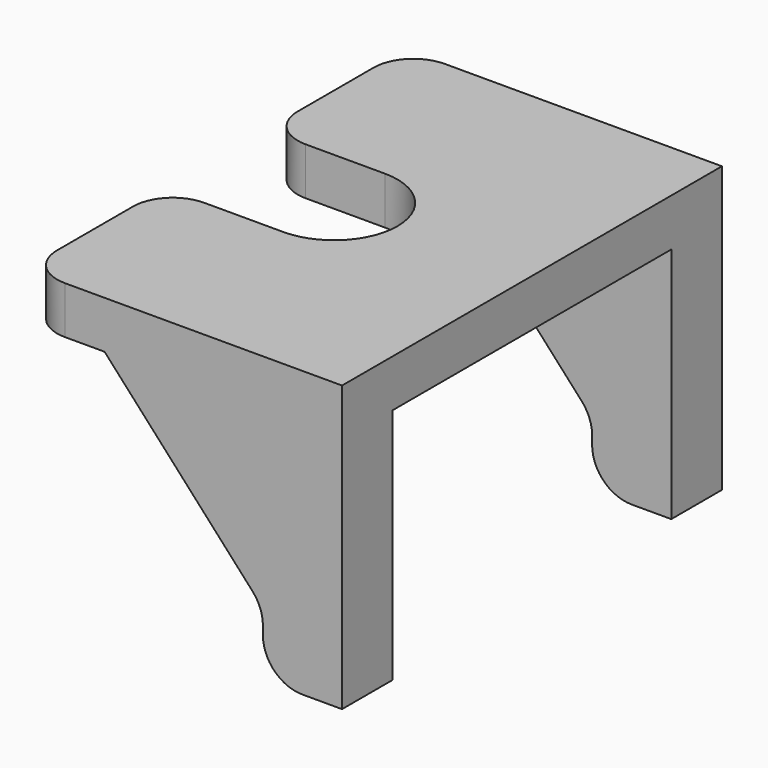
from build123d import *

# Parameters (mm, degrees)
PAD071_DEPTH            = 1.2
PAD072_DEPTH            = 1.6
LINEARPATTERN006_COUNT  = 2
LINEARPATTERN006_PITCH  = 10.4
FILLET026_R             = 1
FILLET027_R             = 1
FILLET028_R             = 1
BODY021_PLACEMENT_ANGLE = 180


with BuildPart() as part:
    # Sketch101 → Pad071 (new body)
    with BuildSketch(Plane.XY):
        with BuildLine():
            Line((-4, 6), (4, 6))
            Line((4, 6), (4, 1.6))
            Line((1, 1.6), (4, 1.6))
            ThreePointArc((1, 1.6), (-0.6, 0), (1, -1.6))
            Line((4, -1.6), (1, -1.6))
            Line((4, -1.6), (4, -6))
            Line((4, -6), (-4, -6))
            Line((-4, -6), (-4, 6))
        make_face()
    extrude(amount=PAD071_DEPTH)

    # Sketch102 (on DatumPlane) → Pad072 (join)
    with BuildSketch(Plane.XZ.offset(6)):
        Polygon((-4, 0), (-4, -6), (-2, -6), (-2, -4.4), (2, 0), align=None)
    pad072 = extrude(amount=-PAD072_DEPTH)

    # LinearPattern006: Pad072 ×2
    with Locations(*[(0, i * LINEARPATTERN006_PITCH, 0) for i in range(1, LINEARPATTERN006_COUNT)]):
        add(pad072)

    # Fillet026
    fillet026_edges = [part.edges().sort_by_distance(p)[0] for p in [
        (-2, -5.2, -6),
        (-2, 5.2, -6),
    ]]
    fillet(fillet026_edges, radius=FILLET026_R)

    # Fillet027
    fillet027_edges = [part.edges().sort_by_distance(p)[0] for p in [
        (-2, -5.2, -4.4),
        (-2, 5.2, -4.4),
    ]]
    fillet(fillet027_edges, radius=FILLET027_R)

    # Fillet028
    fillet028_edges = [part.edges().sort_by_distance(p)[0] for p in [
        (4, -6, 0.6),
        (4, -1.6, 0.6),
        (4, 1.6, 0.6),
        (4, 6, 0.6),
    ]]
    fillet(fillet028_edges, radius=FILLET028_R)


with BuildPart() as part_1:
    # Body021 placement: moved
    add(part.part.moved(Location((-38.8, 59, 34.1))).rotate(Axis((-38.8, 59, 34.1), (0, 0, 1)), BODY021_PLACEMENT_ANGLE))


solid = part_1.part
